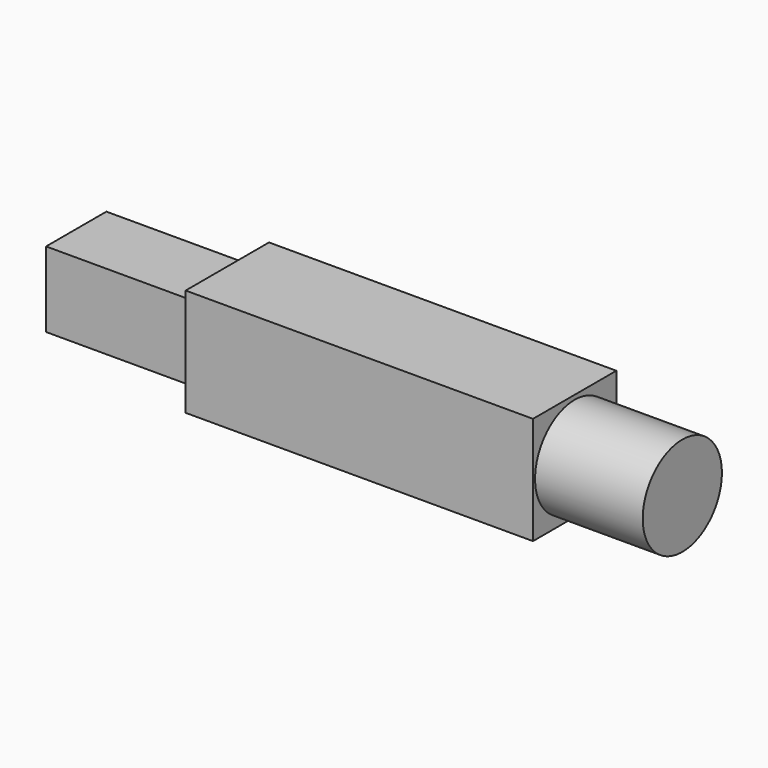
from build123d import *

# Parameters (mm, degrees)
F1_DEPTH = 20
F2_R     = 2.85
F3_DEPTH = 6.2
F4_W     = 4.34
F4_H     = 4.34
F5_DEPTH = 8.7


with BuildPart() as f1:
    # F0 (on Right) → F1 (new body)
    with BuildSketch(Plane.YZ):
        Polygon((-3, 0), (-3, -6.2), (3, -6.2), (3, 0), (1.85, 0), (-1.85, 0), align=None)
    extrude(amount=-F1_DEPTH)

    # F2 (on face) → F3 (join)
    with BuildSketch(Plane.YZ):
        with Locations((0, -3.1)):
            Circle(F2_R)
    extrude(amount=F3_DEPTH)

    # F4 (on face) → F5 (join)
    with BuildSketch(Plane(origin=(-20, 0, 0), x_dir=(0, -1, 0), z_dir=(-1, 0, 0))):
        with Locations((0, -3.1)):
            Rectangle(F4_W, F4_H)
    extrude(amount=F5_DEPTH)


solid = f1.part
